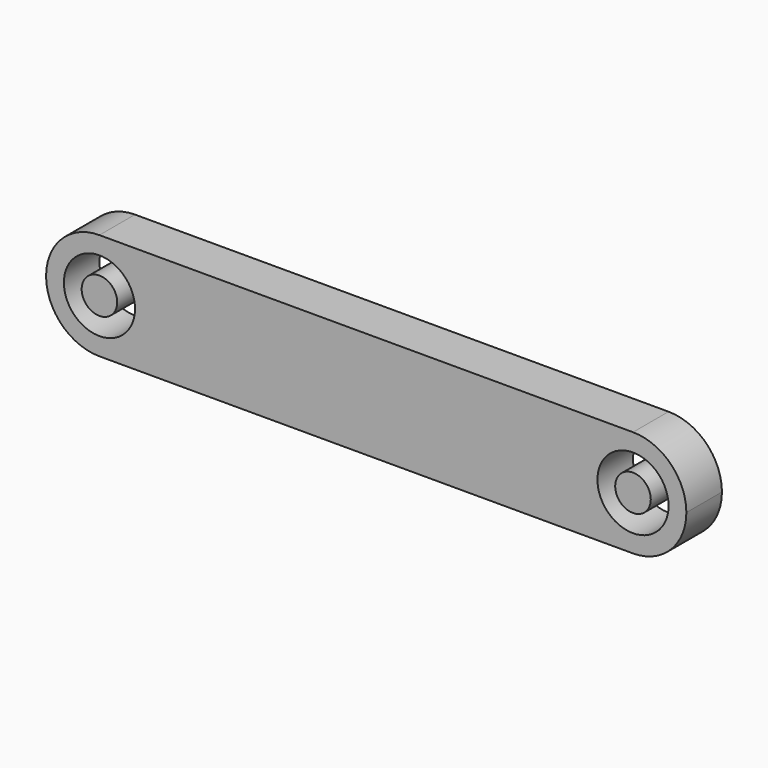
from build123d import *

# Parameters (mm, degrees)
F0_R     = 2
F1_DEPTH = 5
F0_R_2   = 4


with BuildPart() as f1:
    # F0 (on Front) → F1 (new body)
    with BuildSketch(Plane.XZ):
        with Locations((-30, 0)):
            Circle(F0_R)
    extrude(amount=F1_DEPTH)


with BuildPart() as f1b:
    # F0 (on Front) → F1, piece 2 (new body)
    with BuildSketch(Plane.XZ):
        with BuildLine():
            ThreePointArc((-30, -6), (-25.7573593129, -4.2426406871), (-24, 0))
            ThreePointArc((-24, 0), (-25.7573593129, 4.2426406871), (-30, 6))
            ThreePointArc((-30, 6), (-36, 0), (-30, -6))
        make_face()
        with Locations((-30, 0)):
            Circle(F0_R_2, mode=Mode.SUBTRACT)
        with BuildLine():
            ThreePointArc((-30, 6), (-25.7573593129, 4.2426406871), (-24, 0))
            ThreePointArc((-24, 0), (-25.7573593129, -4.2426406871), (-30, -6))
            Line((-30, -6), (0, -6))
            Line((0, -6), (30, -6))
            ThreePointArc((30, -6), (24, 0), (30, 6))
            Line((30, 6), (0, 6))
            Line((0, 6), (-30, 6))
        make_face()
        with BuildLine():
            ThreePointArc((36, 0), (34.2426406871, 4.2426406871), (30, 6))
            ThreePointArc((30, 6), (24, 0), (30, -6))
            ThreePointArc((30, -6), (34.2426406871, -4.2426406871), (36, 0))
        make_face()
        with Locations((30, 0)):
            Circle(F0_R_2, mode=Mode.SUBTRACT)
    extrude(amount=F1_DEPTH)


with BuildPart() as f1c:
    # F0 (on Front) → F1, piece 3 (new body)
    with BuildSketch(Plane.XZ):
        with Locations((30, 0)):
            Circle(F0_R)
    extrude(amount=F1_DEPTH)


solid = Compound([f1.part, f1b.part, f1c.part])
